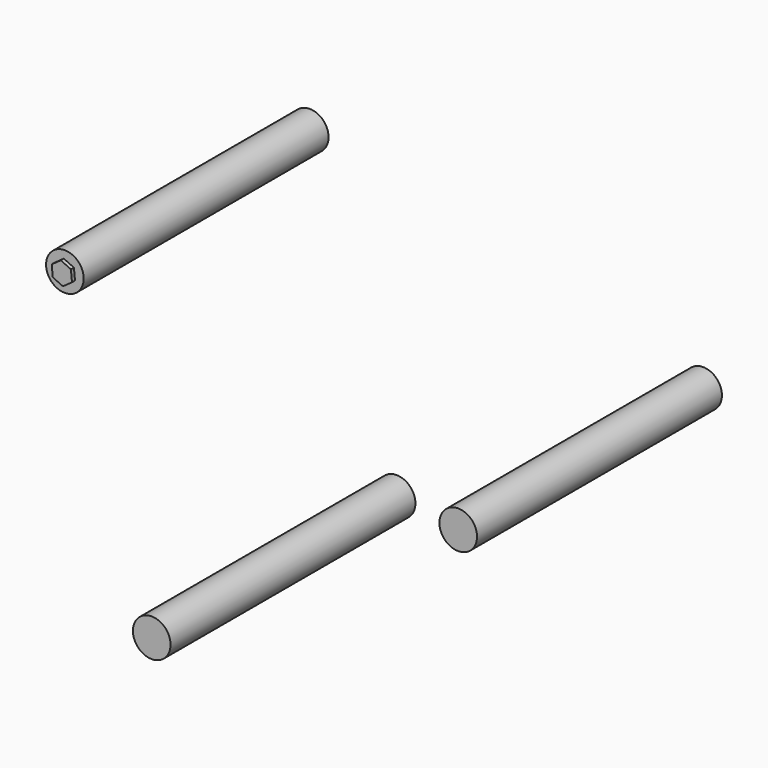
from build123d import *

# Parameters (mm, degrees)
F0_R          = 3.81
F1_DEPTH      = 30.988
F1_DEPTH_BACK = 30.988
F3_DEPTH      = 0.762
F3_DEPTH_BACK = 62.738


with BuildPart() as f1:
    # F0 (on Front) → F1 (new body, two sides)
    with BuildSketch(Plane.XZ) as f1_sk:
        with Locations((30.795215, 25.326908)):
            Circle(F0_R)
        with Locations((-48.84024, 45.445096)):
            Circle(F0_R)
        with Locations((-31.256877, -14.103032)):
            Circle(F0_R)
    extrude(amount=F1_DEPTH)
    extrude(f1_sk.sketch, amount=-F1_DEPTH_BACK)

    # F2 (on face) → F3 (join, two sides)
    with BuildSketch(Plane.XZ.offset(30.988)) as f3_sk:
        Polygon((-50.675425, 44.135599), (-48.623775, 43.20103), (-46.78859, 44.510527), (-47.005054, 46.754592), (-49.056704, 47.689161), (-50.89189, 46.379665), align=None)
    extrude(amount=F3_DEPTH)
    extrude(f3_sk.sketch, amount=-F3_DEPTH_BACK)


solid = f1.part
